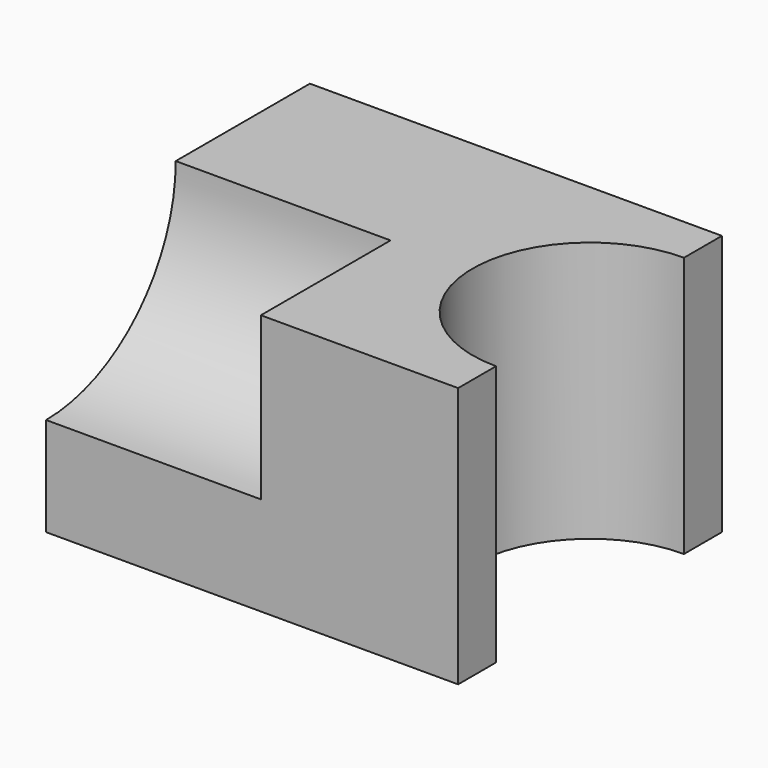
from build123d import *

# Parameters (mm, degrees)
F0_W     = 81.85713
F0_H     = 65.510846
F1_DEPTH = 51.816
F3_DEPTH = 78.994
F5_DEPTH = 42.672


with BuildPart() as f1:
    # F0 (on Top) → F1 (new body)
    with BuildSketch(Plane.XY):
        Rectangle(F0_W, F0_H)
    extrude(amount=F1_DEPTH)

    # F2 (on face) → F3 (cut)
    with BuildSketch(Plane.XY.offset(51.816)):
        with BuildLine():
            Line((40.928565, -23.338192), (40.928565, 23.338192))
            ThreePointArc((40.928565, 23.338192), (17.590373, 0), (40.928565, -23.338192))
        make_face()
    extrude(amount=-F3_DEPTH, mode=Mode.SUBTRACT)

    # F4 (on face) → F5 (cut)
    with BuildSketch(Plane(origin=(-40.928565, 0, 0), x_dir=(0, -1, 0), z_dir=(-1, 0, 0))):
        with BuildLine():
            Line((32.755423, 51.816), (0.557004, 51.816))
            ThreePointArc((0.557004, 51.816), (9.987702, 29.048279), (32.755423, 19.61758))
            Line((32.755423, 19.61758), (32.755423, 51.816))
        make_face()
        with BuildLine():
            ThreePointArc((32.755423, 19.61758), (55.523144, 29.048279), (64.953843, 51.816))
            ThreePointArc((64.953843, 51.816), (32.755423, 84.01442), (0.557004, 51.816))
            Line((0.557004, 51.816), (32.755423, 51.816))
            Line((32.755423, 51.816), (32.755423, 19.61758))
        make_face()
    extrude(amount=-F5_DEPTH, mode=Mode.SUBTRACT)


solid = f1.part
